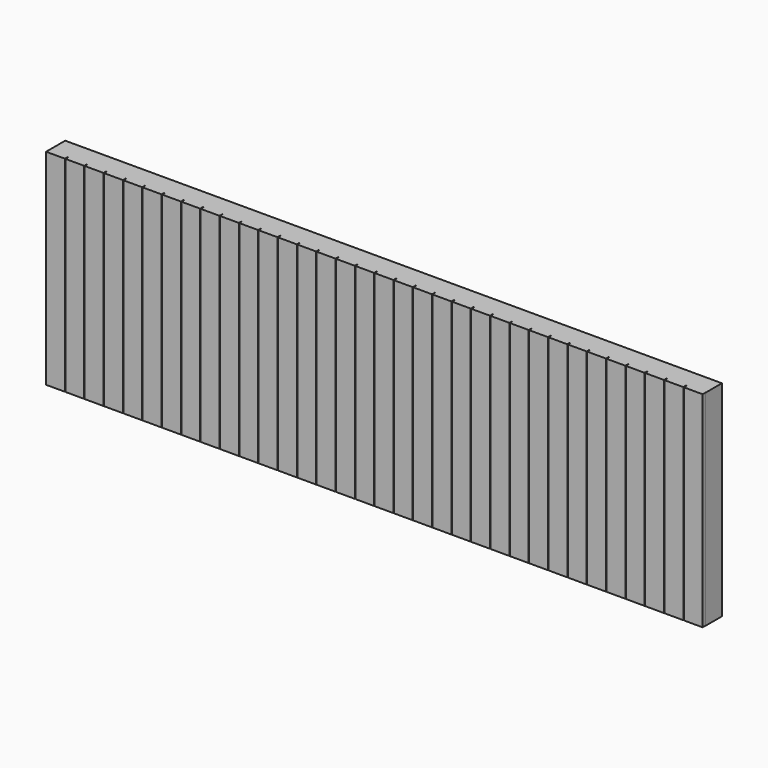
from build123d import *

# Parameters (mm, degrees)
F0_W     = 4876.8
F0_H     = 1524
F0_W_2   = 4800.6
F0_H_2   = 228.6
F0_H_3   = 368.3
F1_DEPTH = 152.4
F2_W     = 38.1
F2_H     = 368.3
F2_H_2   = 228.6
F3_DEPTH = 152.4
F4_W     = 139.7
F4_H     = 1524
F5_DEPTH = 25.4


with BuildPart() as f1:
    # F0 (on Front) → F1 (new body)
    with BuildSketch(Plane.XZ):
        with Locations((2438.4, -762)):
            Rectangle(F0_W, F0_H)
        with Locations((2438.4, -1371.6)):
            Rectangle(F0_W_2, F0_H_2, mode=Mode.SUBTRACT)
        with Locations((2438.4, -1035.05)):
            Rectangle(F0_W_2, F0_H_3, mode=Mode.SUBTRACT)
        with Locations((2438.4, -628.65)):
            Rectangle(F0_W_2, F0_H_3, mode=Mode.SUBTRACT)
        with Locations((2438.4, -222.25)):
            Rectangle(F0_W_2, F0_H_3, mode=Mode.SUBTRACT)
    extrude(amount=F1_DEPTH)

    # F2 (on face) → F3 (join)
    with BuildSketch(Plane.XZ.offset(152.4)):
        with Locations((1625.6, -1035.05)):
            Rectangle(F2_W, F2_H)
        with Locations((1625.6, -628.65)):
            Rectangle(F2_W, F2_H)
        with Locations((1625.6, -222.25)):
            Rectangle(F2_W, F2_H)
        with Locations((1625.6, -1371.6)):
            Rectangle(F2_W, F2_H_2)
        with Locations((3251.2, -1371.6)):
            Rectangle(F2_W, F2_H_2)
        with Locations((3251.2, -1035.05)):
            Rectangle(F2_W, F2_H)
        with Locations((3251.2, -628.65)):
            Rectangle(F2_W, F2_H)
        with Locations((3251.2, -222.25)):
            Rectangle(F2_W, F2_H)
    extrude(amount=-F3_DEPTH)

    # F4 (on face) → F5 (join)
    with BuildSketch(Plane.XZ.offset(152.4)):
        with Locations((69.85, -762)):
            Rectangle(F4_W, F4_H)
        with Locations((213.36, -762)):
            Rectangle(F4_W, F4_H)
        with Locations((356.87, -762)):
            Rectangle(F4_W, F4_H)
        with Locations((500.38, -762)):
            Rectangle(F4_W, F4_H)
        with Locations((643.89, -762)):
            Rectangle(F4_W, F4_H)
        with Locations((787.4, -762)):
            Rectangle(F4_W, F4_H)
        with Locations((930.91, -762)):
            Rectangle(F4_W, F4_H)
        with Locations((1074.42, -762)):
            Rectangle(F4_W, F4_H)
        with Locations((1217.93, -762)):
            Rectangle(F4_W, F4_H)
        with Locations((1361.44, -762)):
            Rectangle(F4_W, F4_H)
        with Locations((1504.95, -762)):
            Rectangle(F4_W, F4_H)
        with Locations((1648.46, -762)):
            Rectangle(F4_W, F4_H)
        with Locations((1791.97, -762)):
            Rectangle(F4_W, F4_H)
        with Locations((1935.48, -762)):
            Rectangle(F4_W, F4_H)
        with Locations((2078.99, -762)):
            Rectangle(F4_W, F4_H)
        with Locations((2222.5, -762)):
            Rectangle(F4_W, F4_H)
        with Locations((2366.01, -762)):
            Rectangle(F4_W, F4_H)
        with Locations((2509.52, -762)):
            Rectangle(F4_W, F4_H)
        with Locations((2653.03, -762)):
            Rectangle(F4_W, F4_H)
        with Locations((2796.54, -762)):
            Rectangle(F4_W, F4_H)
        with Locations((2940.05, -762)):
            Rectangle(F4_W, F4_H)
        with Locations((3083.56, -762)):
            Rectangle(F4_W, F4_H)
        with Locations((3227.07, -762)):
            Rectangle(F4_W, F4_H)
        with Locations((3370.58, -762)):
            Rectangle(F4_W, F4_H)
        with Locations((3514.09, -762)):
            Rectangle(F4_W, F4_H)
        with Locations((3657.6, -762)):
            Rectangle(F4_W, F4_H)
        with Locations((3801.11, -762)):
            Rectangle(F4_W, F4_H)
        with Locations((3944.62, -762)):
            Rectangle(F4_W, F4_H)
        with Locations((4088.13, -762)):
            Rectangle(F4_W, F4_H)
        with Locations((4231.64, -762)):
            Rectangle(F4_W, F4_H)
        with Locations((4375.15, -762)):
            Rectangle(F4_W, F4_H)
        with Locations((4518.66, -762)):
            Rectangle(F4_W, F4_H)
        with Locations((4662.17, -762)):
            Rectangle(F4_W, F4_H)
        with Locations((4805.68, -762)):
            Rectangle(F4_W, F4_H)
    extrude(amount=F5_DEPTH)


solid = f1.part
